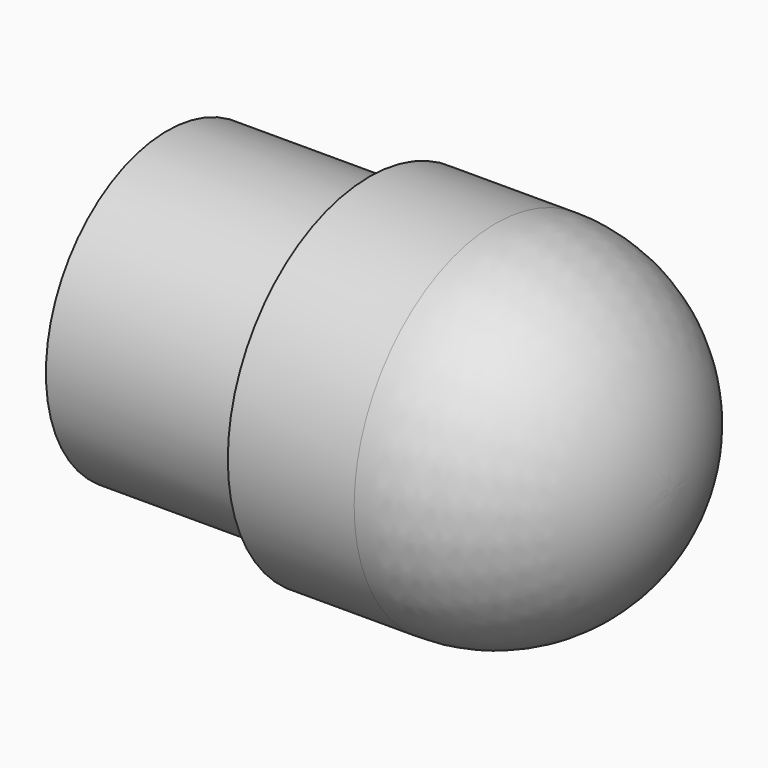
from build123d import *


with BuildPart() as f1:
    # F0 (on Top) → F1 (revolve)
    with BuildSketch(Plane.XY):
        with BuildLine():
            Line((-25, 0), (25, 0))
            ThreePointArc((25, 0), (19.874369, 12.374369), (7.5, 17.5))
            Line((7.5, 17.5), (-5, 17.5))
            Line((-5, 17.5), (-5, 15))
            Line((-5, 15), (-25, 15))
            Line((-25, 15), (-25, 0))
        make_face()
    revolve(axis=Axis((0, 0, 0), (-1, 0, 0)))


solid = f1.part
